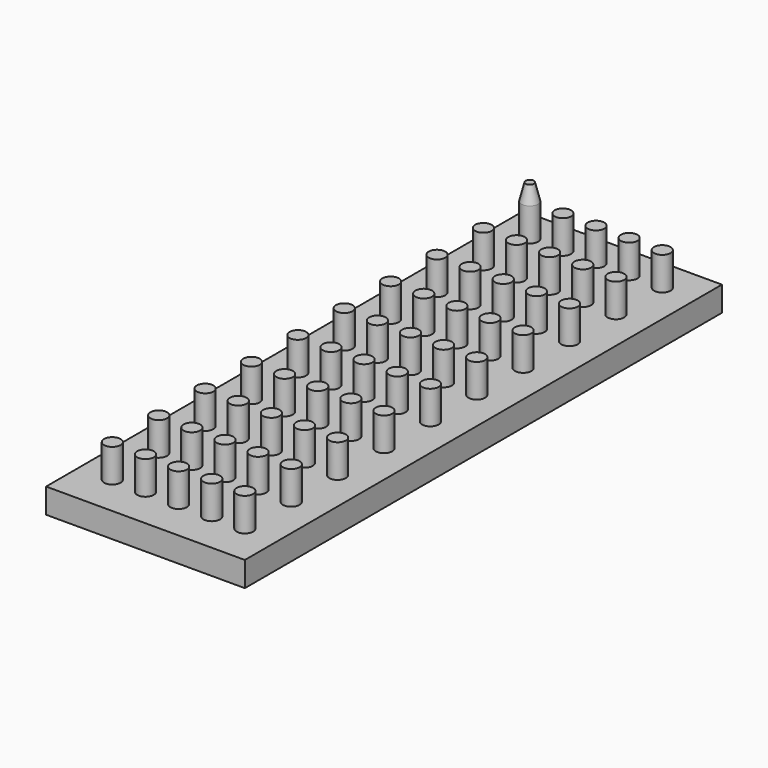
from build123d import *

# Parameters (mm, degrees)
F0_W     = 152.4
F0_H     = 19.05
F1_DEPTH = 457.2
F2_R     = 6.35
F3_DEPTH = 25.4
F4_R     = 6.35
F6_R     = 3.175


with BuildPart() as f1:
    # F0 (on Front) → F1 (new body)
    with BuildSketch(Plane.XZ):
        with Locations((76.2, -9.525)):
            Rectangle(F0_W, F0_H)
    extrude(amount=F1_DEPTH)

    # F2 (on face) → F3 (join)
    with BuildSketch(Plane.XY):
        with Locations((25.4, -25.4)):
            Circle(F2_R)
        with Locations((25.4, -69.85)):
            Circle(F2_R)
        with Locations((25.4, -114.3)):
            Circle(F2_R)
        with Locations((25.4, -158.75)):
            Circle(F2_R)
        with Locations((25.4, -203.2)):
            Circle(F2_R)
        with Locations((25.4, -247.65)):
            Circle(F2_R)
        with Locations((25.4, -292.1)):
            Circle(F2_R)
        with Locations((25.4, -336.55)):
            Circle(F2_R)
        with Locations((50.8, -25.4)):
            Circle(F2_R)
        with Locations((50.8, -69.85)):
            Circle(F2_R)
        with Locations((50.8, -114.3)):
            Circle(F2_R)
        with Locations((50.8, -158.75)):
            Circle(F2_R)
        with Locations((50.8, -203.2)):
            Circle(F2_R)
        with Locations((50.8, -247.65)):
            Circle(F2_R)
        with Locations((50.8, -292.1)):
            Circle(F2_R)
        with Locations((50.8, -336.55)):
            Circle(F2_R)
        with Locations((76.2, -25.4)):
            Circle(F2_R)
        with Locations((76.2, -69.85)):
            Circle(F2_R)
        with Locations((76.2, -114.3)):
            Circle(F2_R)
        with Locations((76.2, -158.75)):
            Circle(F2_R)
        with Locations((76.2, -203.2)):
            Circle(F2_R)
        with Locations((76.2, -247.65)):
            Circle(F2_R)
        with Locations((76.2, -292.1)):
            Circle(F2_R)
        with Locations((76.2, -336.55)):
            Circle(F2_R)
        with Locations((101.6, -25.4)):
            Circle(F2_R)
        with Locations((101.6, -69.85)):
            Circle(F2_R)
        with Locations((101.6, -114.3)):
            Circle(F2_R)
        with Locations((101.6, -158.75)):
            Circle(F2_R)
        with Locations((101.6, -203.2)):
            Circle(F2_R)
        with Locations((101.6, -247.65)):
            Circle(F2_R)
        with Locations((101.6, -292.1)):
            Circle(F2_R)
        with Locations((101.6, -336.55)):
            Circle(F2_R)
        with Locations((127, -25.4)):
            Circle(F2_R)
        with Locations((127, -69.85)):
            Circle(F2_R)
        with Locations((127, -114.3)):
            Circle(F2_R)
        with Locations((127, -158.75)):
            Circle(F2_R)
        with Locations((127, -203.2)):
            Circle(F2_R)
        with Locations((127, -247.65)):
            Circle(F2_R)
        with Locations((127, -292.1)):
            Circle(F2_R)
        with Locations((127, -336.55)):
            Circle(F2_R)
        with Locations((25.4, -381)):
            Circle(F2_R)
        with Locations((25.4, -425.45)):
            Circle(F2_R)
        with Locations((50.8, -381)):
            Circle(F2_R)
        with Locations((50.8, -425.45)):
            Circle(F2_R)
        with Locations((76.2, -381)):
            Circle(F2_R)
        with Locations((76.2, -425.45)):
            Circle(F2_R)
        with Locations((101.6, -381)):
            Circle(F2_R)
        with Locations((101.6, -425.45)):
            Circle(F2_R)
        with Locations((127, -381)):
            Circle(F2_R)
        with Locations((127, -425.45)):
            Circle(F2_R)
    extrude(amount=F3_DEPTH)

    # F4 (on face) → F7 section 0
    with BuildSketch(Plane.XY.offset(25.4)):
        with Locations((25.4, -25.4)):
            Circle(F4_R)
    # F6 (on offset) → F7 section 1
    with BuildSketch(Plane.XY.offset(38.1)):
        with Locations((25.4, -25.4)):
            Circle(F6_R)
    loft()


solid = f1.part
